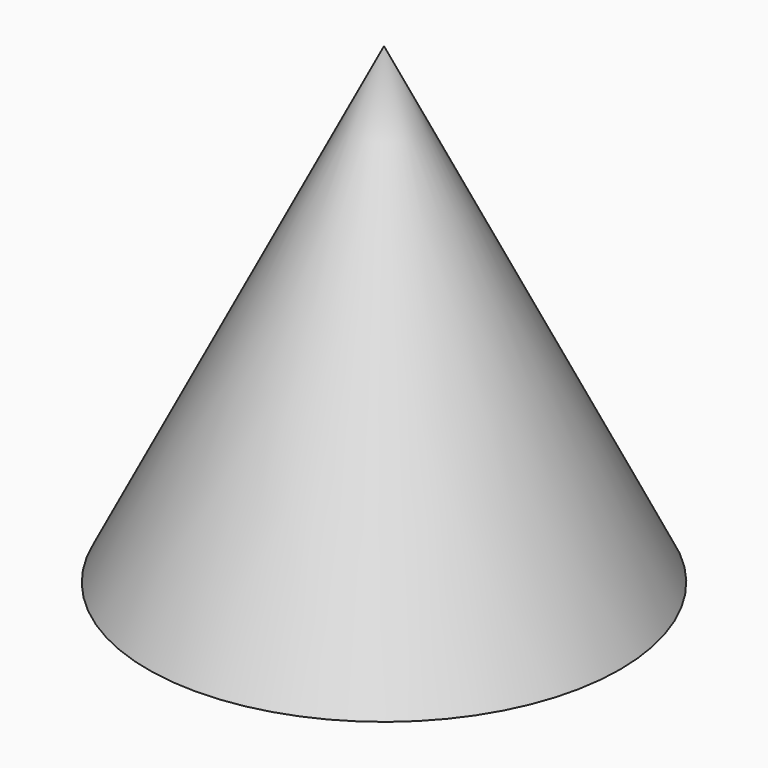
from build123d import *

# Parameters (mm, degrees)
F3_T = -2


with BuildPart() as f1:
    # F0 (on Front) → F1 (revolve)
    with BuildSketch(Plane.XZ):
        Polygon((0, 40), (0, 0), (20, 0), align=None)
    revolve(axis=Axis((0, 0, 20), (0, 0, 1)))

    # F3
    f3_openings = [f1.faces().sort_by_distance(p)[0] for p in [
        (0, 0, 0),
    ]]
    offset(amount=F3_T, openings=f3_openings)


solid = f1.part
